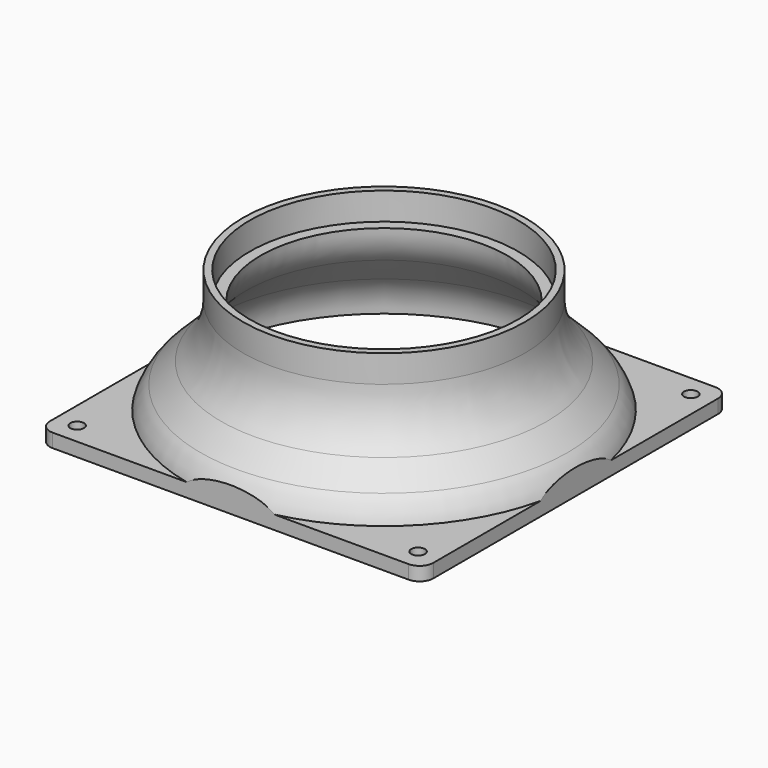
from build123d import *

# Parameters (mm, degrees)
F2_R      = 51.5
F2_R_2    = 49
F5_DEPTH  = 10
F7_R      = 2.5
F8_DEPTH  = 5
F9_W      = 160.924614
F9_H      = 163.103462
F9_W_2    = 140
F9_H_2    = 140
F10_DEPTH = 10


with BuildPart() as f4:
    # F3 (on Front) → F4 (revolve)
    with BuildSketch(Plane.XZ):
        with BuildLine():
            ThreePointArc((63.105709, 14.230078), (67.468124, 7.701262), (69, 0))
            Line((69, 0), (72.5, 0))
            ThreePointArc((72.5, 0), (71.091539, 7.08081), (67.080583, 13.083631))
            Line((67.080583, 13.083631), (59.515611, 20.648602))
            ThreePointArc((59.515611, 20.648602), (53.58319, 29.527099), (51.5, 40))
            Line((51.5, 40), (45, 40))
            ThreePointArc((45, 40), (46.408461, 32.91919), (50.419417, 26.916369))
            Line((50.419417, 26.916369), (63.105709, 14.230078))
        make_face()
    revolve(axis=Axis((0, 0, 20), (0, 0, 1)))

    # F2 (on offset) → F5 (join)
    with BuildSketch(Plane.XY.offset(40)):
        Circle(F2_R)
        Circle(F2_R_2, mode=Mode.SUBTRACT)
    extrude(amount=F5_DEPTH)

    # F7 (on offset) → F8 (join)
    with BuildSketch(Plane.XY.offset(5)):
        with BuildLine():
            Line((-70, 65), (-70, 16.028423))
            ThreePointArc((-70, 16.028423), (-50.778491, 50.778491), (-16.028423, 70))
            Line((-16.028423, 70), (-65, 70))
            ThreePointArc((-65, 70), (-68.535534, 68.535534), (-70, 65))
        make_face()
        with Locations((-62.25, 62.25)):
            Circle(F7_R, mode=Mode.SUBTRACT)
        with BuildLine():
            ThreePointArc((-16.028423, -70), (-50.778491, -50.778491), (-70, -16.028423))
            Line((-70, -16.028423), (-70, -65))
            ThreePointArc((-70, -65), (-68.535534, -68.535534), (-65, -70))
            Line((-65, -70), (-16.028423, -70))
        make_face()
        with Locations((-62.25, -62.25)):
            Circle(F7_R, mode=Mode.SUBTRACT)
        with BuildLine():
            ThreePointArc((70, -16.028423), (50.778491, -50.778491), (16.028423, -70))
            Line((16.028423, -70), (65, -70))
            ThreePointArc((65, -70), (68.535534, -68.535534), (70, -65))
            Line((70, -65), (70, -16.028423))
        make_face()
        with Locations((62.25, -62.25)):
            Circle(F7_R, mode=Mode.SUBTRACT)
        with BuildLine():
            Line((65, 70), (16.028423, 70))
            ThreePointArc((16.028423, 70), (50.778491, 50.778491), (70, 16.028423))
            Line((70, 16.028423), (70, 65))
            ThreePointArc((70, 65), (68.535534, 68.535534), (65, 70))
        make_face()
        with Locations((62.25, 62.25)):
            Circle(F7_R, mode=Mode.SUBTRACT)
    extrude(amount=-F8_DEPTH)

    # F9 (on Top) → F10 (cut)
    with BuildSketch(Plane.XY):
        Rectangle(F9_W, F9_H)
        Rectangle(F9_W_2, F9_H_2, mode=Mode.SUBTRACT)
    extrude(amount=F10_DEPTH, mode=Mode.SUBTRACT)


solid = f4.part
